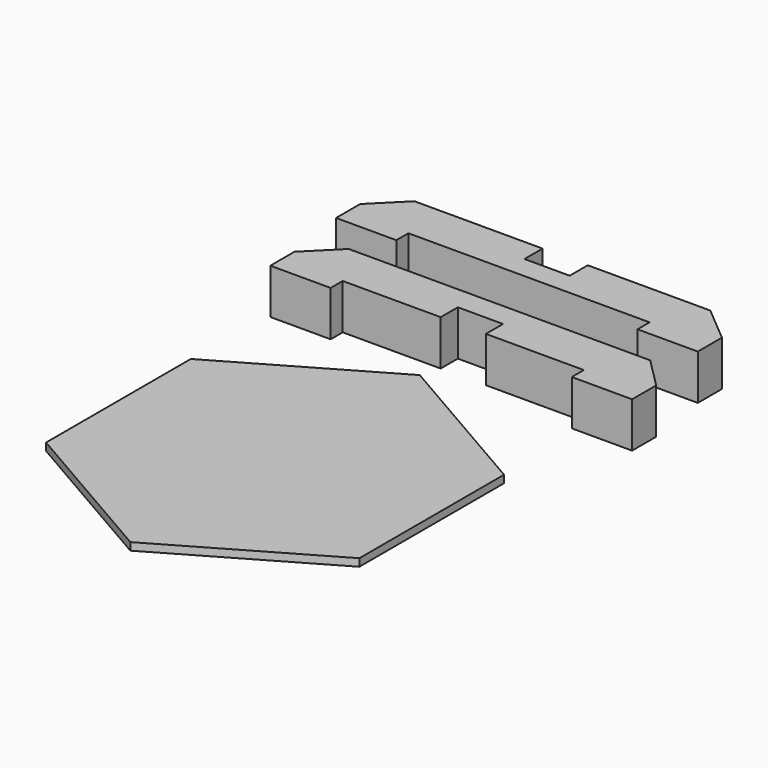
from build123d import *

# Parameters (mm, degrees)
F1_DEPTH = 19.05
F3_DEPTH = 19.05
F5_DEPTH = 3.175


with BuildPart() as f1:
    # F0 (on Top) → F1 (new body)
    with BuildSketch(Plane.XY):
        Polygon((74.217341, 6.35), (-52.782659, 6.35), (-65.482659, -6.35), (-65.482659, -19.05), (-40.082659, -19.05), (-40.082659, -12.7), (1.192341, -12.7), (1.192341, -3.67947), (20.242341, -3.67947), (20.242341, -12.7), (61.517341, -12.7), (61.517341, -19.05), (86.917341, -19.05), (86.917341, -6.35), align=None)
    extrude(amount=F1_DEPTH)


with BuildPart() as f3:
    # F2 (on Top) → F3 (new body)
    with BuildSketch(Plane.XY):
        Polygon((-44.509392, 46.409821), (-57.15, 46.409821), (-57.150001, 46.405985), (-69.850001, 33.709821), (-69.850002, 21.009821), (-44.450002, 21.009821), (-44.450002, 27.359821), (57.149998, 27.359821), (57.149998, 21.009821), (82.549998, 21.009821), (82.549999, 33.709821), (67.524716, 46.409821), (15.875, 46.409821), (15.875, 36.884821), (-3.175, 36.884821), (-3.175, 46.409821), align=None)
    extrude(amount=F3_DEPTH)


with BuildPart() as f5:
    # F4 (on Top) → F5 (new body)
    with BuildSketch(Plane.XY):
        Polygon((68.531145, -63.50007), (2.54001, -25.40007), (-63.451126, -63.50007), (-63.451126, -139.70007), (2.54001, -177.80007), (68.531145, -139.70007), align=None)
    extrude(amount=F5_DEPTH)


solid = Compound([f1.part, f3.part, f5.part])
